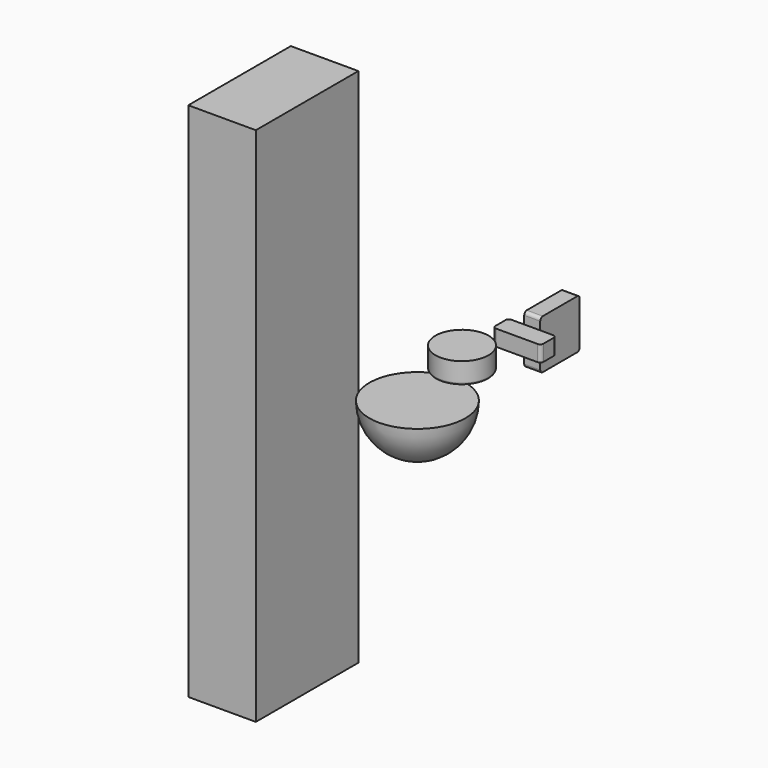
from build123d import *

# Parameters (mm, degrees)
F0_R      = 41.5
F1_DEPTH  = 33
F2_R      = 3
F6_DEPTH  = 25
F8_DEPTH  = 12.5
F9_W      = 105.4293025258
F9_H      = 813
F10_DEPTH = 200


with BuildPart() as f1:
    # F0 (on Top) → F1 (new body)
    with BuildSketch(Plane.XY):
        Circle(F0_R)
    extrude(amount=F1_DEPTH)

    # F2
    f2_edges = [f1.edges().sort_by_distance(p)[0] for p in [
        (-41.5, 0, 0),
    ]]
    fillet(f2_edges, radius=F2_R)


with BuildPart() as f4:
    # F3 (on Right) → F4 (revolve)
    with BuildSketch(Plane.YZ):
        with BuildLine():
            Line((-87.0318263769, -7.2241038071), (-162.0318263769, -7.2241038071))
            ThreePointArc((-162.0318263769, -7.2241038071), (-140.0648349659, -60.2571123961), (-87.0318263769, -82.2241038071))
            Line((-87.0318263769, -82.2241038071), (-87.0318263769, -7.2241038071))
        make_face()
    revolve(axis=Axis((0, -87.0318263769, -48.3713962131), (0, 0, -1)))


with BuildPart() as f6:
    # F5 (on Right) → F6 (new body)
    with BuildSketch(Plane.YZ):
        with BuildLine():
            Line((193.3982848227, 30.0528338702), (126.3982848227, 30.0528338702))
            ThreePointArc((126.3982848227, 30.0528338702), (122.8627509168, 28.5883677761), (121.3982848227, 25.0528338702))
            Line((121.3982848227, 25.0528338702), (121.3982848227, -41.9471661298))
            ThreePointArc((121.3982848227, -41.9471661298), (122.8627509168, -45.4827000357), (126.3982848227, -46.9471661298))
            Line((126.3982848227, -46.9471661298), (193.3982848227, -46.9471661298))
            ThreePointArc((193.3982848227, -46.9471661298), (196.9338187286, -45.4827000357), (198.3982848227, -41.9471661298))
            Line((198.3982848227, -41.9471661298), (198.3982848227, 25.0528338702))
            ThreePointArc((198.3982848227, 25.0528338702), (196.9338187286, 28.5883677761), (193.3982848227, 30.0528338702))
        make_face()
    extrude(amount=F6_DEPTH)

    # F7 (on Top) → F8 (join, symmetric)
    with BuildSketch(Plane.XY):
        with BuildLine():
            Line((45, 121.3982848227), (-20, 121.3982848227))
            ThreePointArc((-20, 121.3982848227), (-23.5355339059, 119.9338187286), (-25, 116.3982848227))
            Line((-25, 116.3982848227), (-25, 96.3982848227))
            ThreePointArc((-25, 96.3982848227), (-23.5355339059, 92.8627509168), (-20, 91.3982848227))
            Line((-20, 91.3982848227), (45, 91.3982848227))
            ThreePointArc((45, 91.3982848227), (48.5355339059, 92.8627509168), (50, 96.3982848227))
            Line((50, 96.3982848227), (50, 116.3982848227))
            ThreePointArc((50, 116.3982848227), (48.5355339059, 119.9338187286), (45, 121.3982848227))
        make_face()
    extrude(amount=F8_DEPTH, both=True)


with BuildPart() as f10:
    # F9 (on Front) → F10 (new body)
    with BuildSketch(Plane.XZ):
        with Locations((-214.4689261913, -49.0563139319)):
            Rectangle(F9_W, F9_H)
    extrude(amount=F10_DEPTH)


solid = Compound([f1.part, f4.part, f6.part, f10.part])
